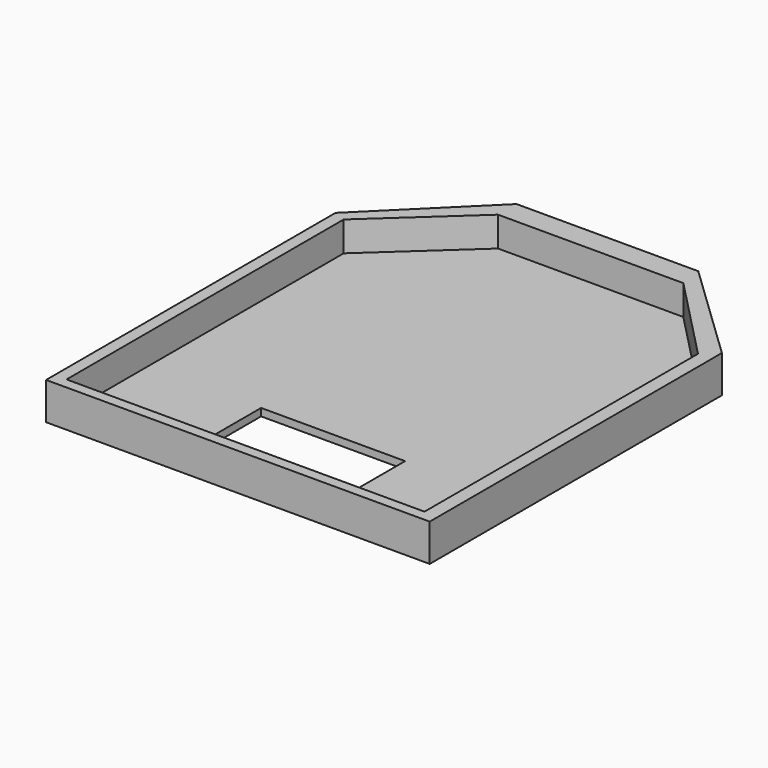
from build123d import *

# Parameters (mm, degrees)
PAD026_DEPTH    = 5
POCKET005_DEPTH = 4
SKETCH030_W     = 19.322021
SKETCH030_H     = 8.266103
POCKET006_DEPTH = 5


with BuildPart() as part:
    # Sketch028 → Pad026 (new body)
    with BuildSketch(Plane.XY):
        Polygon((-13.074139, 32.516678), (-26.638874, 19.106085), (-26.638874, -29.449505), (24.845465, -29.449505), (24.845465, 19.568523), (11.313561, 32.516678), align=None)
    extrude(amount=PAD026_DEPTH)

    # Sketch029 (on Face8 of Pad026) → Pocket005 (cut)
    with BuildSketch(Plane.XY.offset(5)):
        Polygon((-25.033306, 18.464409), (-13.081248, 29.420872), (11.783705, 29.420872), (23.004097, 17.85417), (23.004097, -28.02212), (-25.033306, -28.02212), align=None)
    extrude(amount=-POCKET005_DEPTH, mode=Mode.SUBTRACT)

    # Sketch030 (on Face4 of Pocket005) → Pocket006 (cut)
    with BuildSketch(Plane(origin=(0, 0, 0), x_dir=(1, 0, 0), z_dir=(0, 0, -1))):
        with Locations((-0.2128295, 18.4669375)):
            Rectangle(SKETCH030_W, SKETCH030_H)
    extrude(amount=-POCKET006_DEPTH, mode=Mode.SUBTRACT)


solid = part.part
